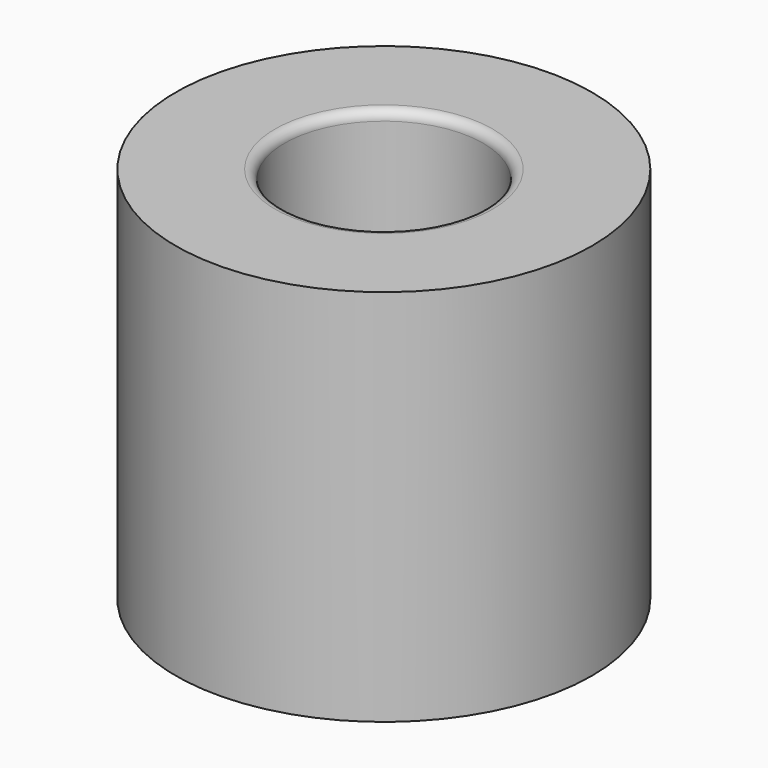
from build123d import *

# Parameters (mm, degrees)
SKETCH002_R     = 11
PAD001_DEPTH    = 20
SKETCH003_R     = 5.25
POCKET001_DEPTH = 20
FILLET005_R     = 0.5
FILLET006_R     = 0.5


with BuildPart() as part:
    # Sketch002 → Pad001 (new body)
    with BuildSketch(Plane.XY):
        with Locations((40, 0)):
            Circle(SKETCH002_R)
    extrude(amount=PAD001_DEPTH)

    # Sketch003 (on Face2 of Pad001) → Pocket001 (cut)
    with BuildSketch(Plane(origin=(0, 0, 0), x_dir=(1, 0, 0), z_dir=(0, 0, -1))):
        with Locations((40, 0)):
            Circle(SKETCH003_R)
    extrude(amount=-POCKET001_DEPTH, mode=Mode.SUBTRACT)

    # Fillet005
    fillet005_edges = [part.edges().sort_by_distance(p)[0] for p in [
        (34.75, 0, 20),
    ]]
    fillet(fillet005_edges, radius=FILLET005_R)

    # Fillet006
    fillet006_edges = [part.edges().sort_by_distance(p)[0] for p in [
        (34.75, 0, 0),
    ]]
    fillet(fillet006_edges, radius=FILLET006_R)


solid = part.part
